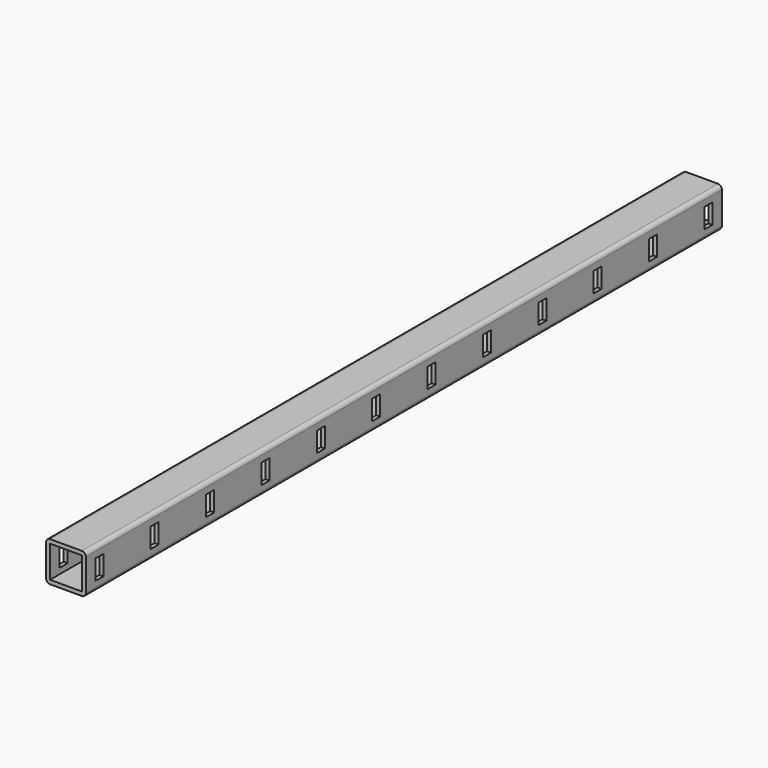
from build123d import *

# Parameters (mm, degrees)
F0_W     = 80
F0_H     = 80
F1_DEPTH = 2000
F2_W     = 25
F2_H     = 50
F3_DEPTH = 100


with BuildPart() as f1:
    # F0 (on Front) → F1 (new body)
    with BuildSketch(Plane.XZ):
        with BuildLine():
            Line((20.243097, 75.749835), (-59.756903, 75.749835))
            ThreePointArc((-59.756903, 75.749835), (-66.827971, 72.820903), (-69.756903, 65.749835))
            Line((-69.756903, 65.749835), (-69.756903, -14.250165))
            ThreePointArc((-69.756903, -14.250165), (-66.827971, -21.321233), (-59.756903, -24.250165))
            Line((-59.756903, -24.250165), (20.243097, -24.250165))
            ThreePointArc((20.243097, -24.250165), (27.314164, -21.321233), (30.243097, -14.250165))
            Line((30.243097, -14.250165), (30.243097, 65.749835))
            ThreePointArc((30.243097, 65.749835), (27.314164, 72.820903), (20.243097, 75.749835))
        make_face()
        with Locations((-19.756903, 25.749835)):
            Rectangle(F0_W, F0_H, mode=Mode.SUBTRACT)
    extrude(amount=F1_DEPTH)

    # F2 (on face) → F3 (cut)
    with BuildSketch(Plane(origin=(-69.756903, 0, 0), x_dir=(0, -1, 0), z_dir=(-1, 0, 0))):
        with Locations((42.5, 25)):
            Rectangle(F2_W, F2_H)
        with Locations((216.591, 25)):
            Rectangle(F2_W, F2_H)
        with Locations((390.682, 25)):
            Rectangle(F2_W, F2_H)
        with Locations((564.773, 25)):
            Rectangle(F2_W, F2_H)
        with Locations((1957.5, 25)):
            Rectangle(F2_W, F2_H)
        with Locations((738.864, 25)):
            Rectangle(F2_W, F2_H)
        with Locations((912.955, 25)):
            Rectangle(F2_W, F2_H)
        with Locations((1087.045, 25)):
            Rectangle(F2_W, F2_H)
        with Locations((1261.136, 25)):
            Rectangle(F2_W, F2_H)
        with Locations((1435.227, 25)):
            Rectangle(F2_W, F2_H)
        with Locations((1609.318, 25)):
            Rectangle(F2_W, F2_H)
        with Locations((1783.409, 25)):
            Rectangle(F2_W, F2_H)
    extrude(amount=-F3_DEPTH, mode=Mode.SUBTRACT)


solid = f1.part
